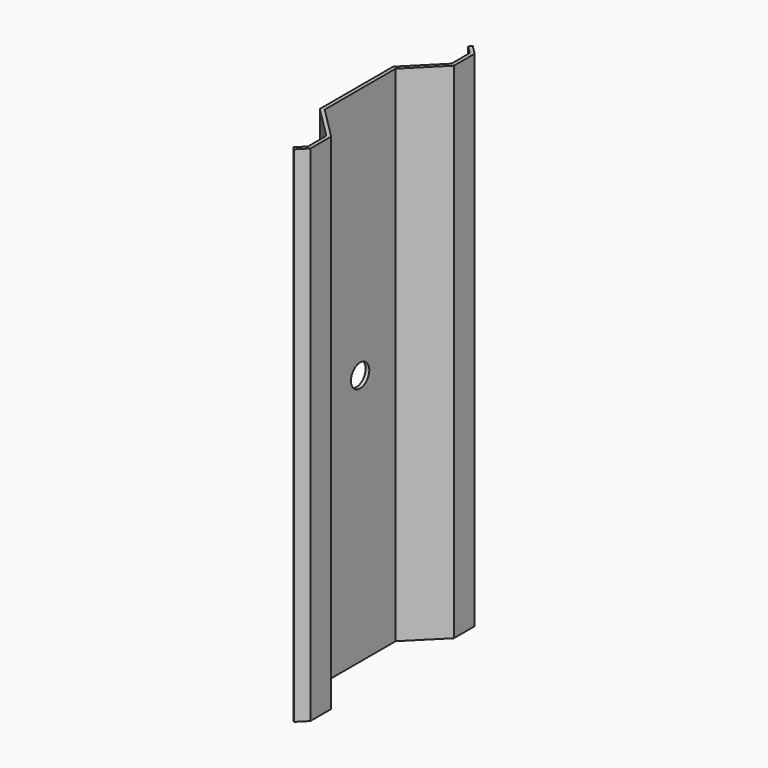
from build123d import *

# Parameters (mm, degrees)
F1_DEPTH = 279.4
F2_R     = 6.35
F3_DEPTH = 25.4


with BuildPart() as f1:
    # F0 (on Top) → F1 (new body)
    with BuildSketch(Plane.XY):
        Polygon((0, 25.4), (0, 0), (0, -25.4), (17.960512, -43.360512), (17.960512, -56.060512), (13.470384, -60.55064), (14.907225, -61.987481), (19.992512, -56.902194), (19.992512, -42.51883), (2.032, -24.558318), (2.032, 0), (2.032, 24.558318), (19.992512, 42.51883), (19.992512, 56.902194), (14.907225, 61.987481), (13.470384, 60.55064), (17.960512, 56.060512), (17.960512, 43.360512), align=None)
    extrude(amount=F1_DEPTH)

    # F2 (on face) → F3 (cut)
    with BuildSketch(Plane(origin=(0, 0, 0), x_dir=(0, -1, 0), z_dir=(-1, 0, 0))):
        with Locations((0, 139.7)):
            Circle(F2_R)
    extrude(amount=-F3_DEPTH, mode=Mode.SUBTRACT)


solid = f1.part
